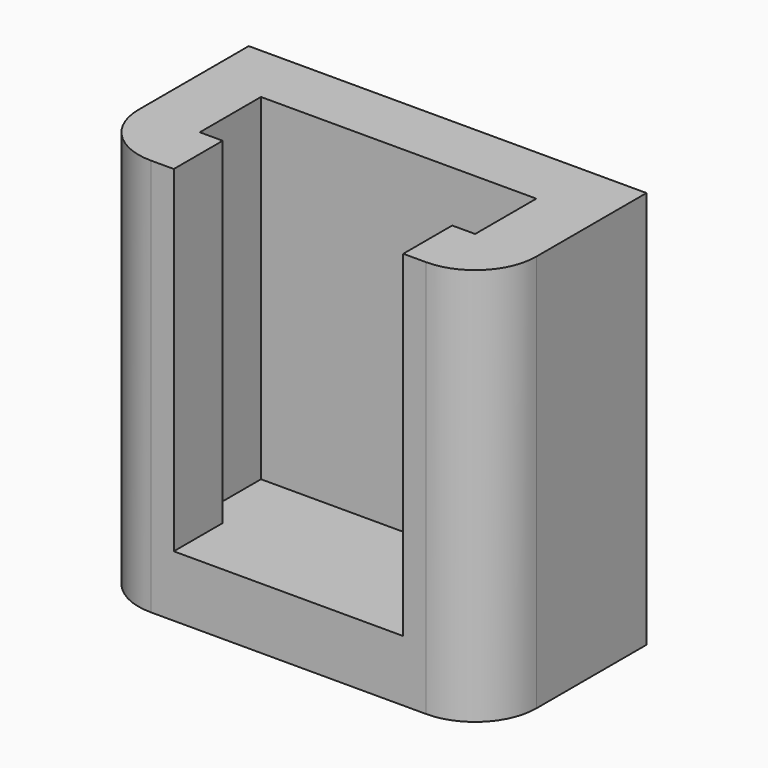
from build123d import *

# Parameters (mm, degrees)
F1_DEPTH = 13
F0_W     = 7.5
F0_H     = 2
F2_DEPTH = 2
F3_R     = 2


with BuildPart() as f1:
    # F0 (on Top) → F1 (new body)
    with BuildSketch(Plane.XY):
        Polygon((3.75, -3.25), (6.5, -3.25), (6.5, 3.25), (-6.5, 3.25), (-6.5, -3.25), (-3.75, -3.25), (-3.75, -1.25), (-4.5, -1.25), (-4.5, 1.25), (4.5, 1.25), (4.5, -1.25), (3.75, -1.25), align=None)
    extrude(amount=F1_DEPTH)

    # F0 (on Top) → F2 (join)
    with BuildSketch(Plane.XY):
        Polygon((3.75, -3.25), (6.5, -3.25), (6.5, 3.25), (-6.5, 3.25), (-6.5, -3.25), (-3.75, -3.25), (-3.75, -1.25), (-4.5, -1.25), (-4.5, 1.25), (4.5, 1.25), (4.5, -1.25), (3.75, -1.25), align=None)
        Polygon((-3.75, -1.25), (3.75, -1.25), (4.5, -1.25), (4.5, 1.25), (-4.5, 1.25), (-4.5, -1.25), align=None)
        with Locations((0, -2.25)):
            Rectangle(F0_W, F0_H)
    extrude(amount=F2_DEPTH)

    # F3
    f3_edges = [f1.edges().sort_by_distance(p)[0] for p in [
        (-6.5, -3.25, 6.5),
        (6.5, -3.25, 6.5),
    ]]
    fillet(f3_edges, radius=F3_R)


solid = f1.part
